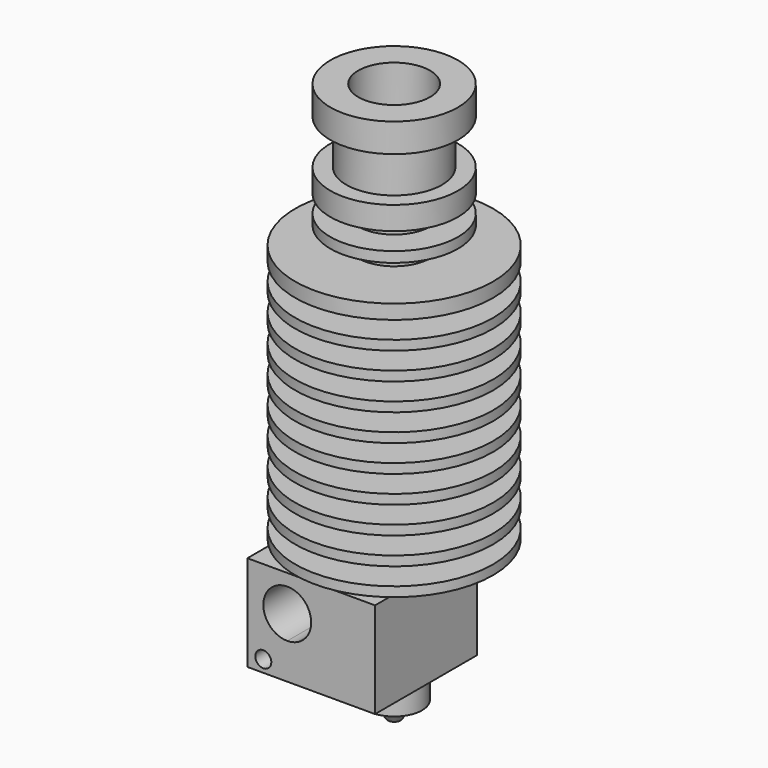
from build123d import *

# Parameters (mm, degrees)
F0_W          = 1.15
F0_H          = 7.5
F0_H_2        = 4.5
F0_R          = 1
F4_DEPTH      = 8
F4_DEPTH_BACK = 8


with BuildPart() as f1:
    # F0 (on Front) → F1 (revolve)
    with BuildSketch(Plane.XZ):
        Polygon((2.5, 23), (2.5, 0), (12.4, 0), (12.4, 1.2), (7.4, 1.2), (7.4, 3.4), (12.4, 3.4), (12.4, 4.6), (7.4, 4.6), (7.4, 6.8), (12.4, 6.8), (12.4, 8), (7.4, 8), (7.4, 10.2), (12.4, 10.2), (12.4, 11.4), (7.4, 11.4), (7.4, 13.6), (12.4, 13.6), (12.4, 14.8), (7.4, 14.8), (7.4, 17), (12.4, 17), (12.4, 18.2), (6.4, 18.2), (6.4, 20.4), (12.4, 20.4), (12.4, 21.6), (4.5, 21.6), (4.5, 23.8), (12.4, 23.8), (12.4, 25), (4.5, 25), (4.5, 27.2), (12.4, 27.2), (12.4, 28.4), (4.5, 28.4), (4.5, 30.6), (12.4, 30.6), (12.4, 32.4), (4.5, 32.4), (4.5, 34.6), (8, 34.6), (8, 35.9), (4.5, 35.9), (4.5, 38.1), (8, 38.1), (8, 41), (6, 41), (6, 46.6), (8, 46.6), (8, 50.2), (4.5, 50.2), (4.5, 40.2), (1, 35.2), (1, 23), align=None)
    revolve(axis=Axis((0, 0, 29.5251291245), (0, 0, 1)))


with BuildPart() as f2:
    # F0 (on Front) → F2 (revolve)
    with BuildSketch(Plane.XZ):
        Polygon((2.15, 0), (2.5, 0), (2.5, 23), (1, 23), (1, 0), (1, -2.8), (2.15, -2.8), align=None)
    revolve(axis=Axis((0, 0, 29.5251291245), (0, 0, 1)))


with BuildPart() as f3:
    # F0 (on Front) → F3 (revolve)
    with BuildSketch(Plane.XZ):
        with Locations((1.575, -11.05)):
            Rectangle(F0_W, F0_H)
        Polygon((3.5, -14.8), (2.15, -14.8), (1, -14.8), (1, -17.8), (0.2, -19.8), (0.8, -19.8), (2.15, -17.8), (3.5, -17.8), align=None)
        with Locations((1.575, -5.05)):
            Rectangle(F0_W, F0_H_2)
    revolve(axis=Axis((0, 0, 29.5251291245), (0, 0, 1)))


with BuildPart() as f4:
    # F0 (on Front) → F4 (new body, two sides)
    with BuildSketch(Plane.XZ) as f4_sk:
        with BuildLine():
            Line((0, -14.8), (0, -2.8))
            Line((0, -2.8), (-12, -2.8))
            Line((-12, -2.8), (-12, -14.8))
            Line((-12, -14.8), (-7, -14.8))
            Line((-7, -14.8), (-7, -10.3))
            ThreePointArc((-7, -10.3), (-9.1213203436, -5.1786796564), (-4, -7.3))
            ThreePointArc((-4, -7.3), (-4.4751237654, -8.9201851746), (-5.75, -10.0271780287))
            Line((-5.75, -10.0271780287), (-5.75, -14.8))
            Line((-5.75, -14.8), (0, -14.8))
        make_face()
        with Locations((-10, -13.3)):
            Circle(F0_R, mode=Mode.SUBTRACT)
        with Locations((1.575, -5.05)):
            Rectangle(F0_W, F0_H_2)
        Polygon((4, -2.8), (2.15, -2.8), (2.15, -7.3), (2.15, -14.8), (3.5, -14.8), (4, -14.8), align=None)
        with Locations((1.575, -11.05)):
            Rectangle(F0_W, F0_H)
        Polygon((1, -7.3), (1, -2.8), (0, -2.8), (0, -14.8), (1, -14.8), align=None)
        with BuildLine():
            Line((-7, -14.8), (-5.75, -14.8))
            Line((-5.75, -14.8), (-5.75, -10.0271780287))
            ThreePointArc((-5.75, -10.0271780287), (-6.3602868166, -10.2310010309), (-7, -10.3))
            Line((-7, -10.3), (-7, -14.8))
        make_face()
    extrude(amount=F4_DEPTH)
    extrude(f4_sk.sketch, amount=-F4_DEPTH_BACK)

    # F0 (on Front) → F5 (revolve, cut)
    with BuildSketch(Plane.XZ):
        Polygon((1, -7.3), (1, -2.8), (0, -2.8), (0, -14.8), (1, -14.8), align=None)
        with Locations((1.575, -5.05)):
            Rectangle(F0_W, F0_H_2)
        with Locations((1.575, -11.05)):
            Rectangle(F0_W, F0_H)
    revolve(axis=Axis((0, 0, 29.5251291245), (0, 0, 1)), mode=Mode.SUBTRACT)

    # F0 (on Front) → F6 (revolve, cut)
    with BuildSketch(Plane.XZ):
        with BuildLine():
            Line((-7, -14.8), (-5.75, -14.8))
            Line((-5.75, -14.8), (-5.75, -10.0271780287))
            ThreePointArc((-5.75, -10.0271780287), (-6.3602868166, -10.2310010309), (-7, -10.3))
            Line((-7, -10.3), (-7, -14.8))
        make_face()
        with BuildLine():
            ThreePointArc((-7, -10.3), (-6.3602868166, -10.2310010309), (-5.75, -10.0271780287))
            Line((-5.75, -10.0271780287), (-5.75, -7.3))
            Line((-5.75, -7.3), (-7, -7.3))
            Line((-7, -7.3), (-7, -10.3))
        make_face()
    revolve(axis=Axis((-7, 0, -11.05), (0, 0, -1)), mode=Mode.SUBTRACT)


solid = Compound([f1.part, f2.part, f3.part, f4.part])
